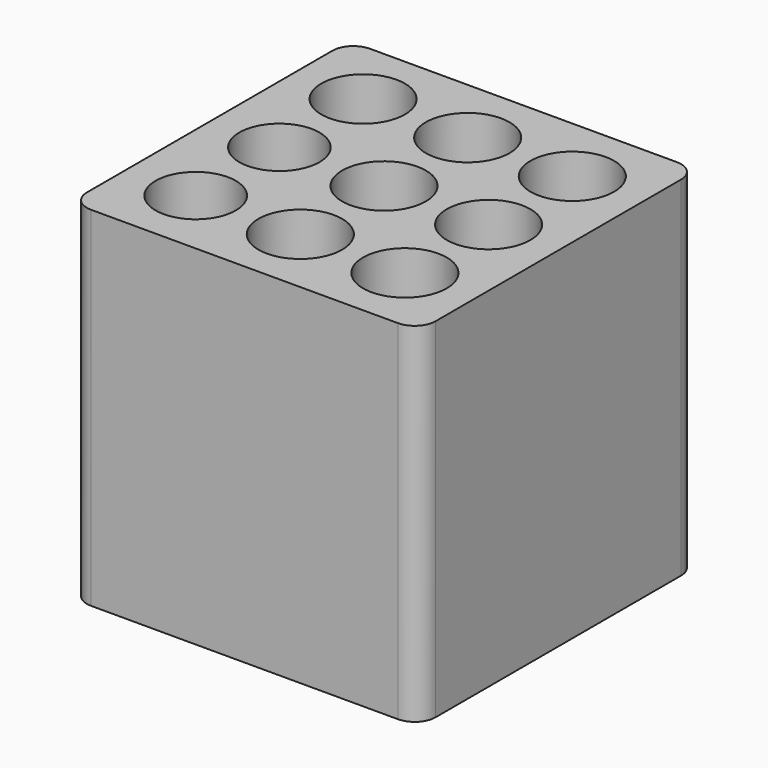
from build123d import *

# Parameters (mm, degrees)
F0_R     = 5.753175
F0_R_2   = 6
F0_R_3   = 5.998256
F1_DEPTH = 40
F3_DEPTH = 10


with BuildPart() as f1:
    # F0 (on Top) → F1 (new body)
    with BuildSketch(Plane.XY):
        with BuildLine():
            ThreePointArc((25, 22), (24.12132, 24.12132), (22, 25))
            Line((22, 25), (-22, 25))
            ThreePointArc((-22, 25), (-24.12132, 24.12132), (-25, 22))
            Line((-25, 22), (-25, -22))
            ThreePointArc((-25, -22), (-24.12132, -24.12132), (-22, -25))
            Line((-22, -25), (22, -25))
            ThreePointArc((22, -25), (24.12132, -24.12132), (25, -22))
            Line((25, -22), (25, 22))
        make_face()
        with Locations((-15, -15)):
            Circle(F0_R, mode=Mode.SUBTRACT)
        with Locations((0, -15)):
            Circle(F0_R_2, mode=Mode.SUBTRACT)
        with Locations((15, -15)):
            Circle(F0_R_2, mode=Mode.SUBTRACT)
        with Locations((-15, 0)):
            Circle(F0_R, mode=Mode.SUBTRACT)
        with Locations((-15, 15)):
            Circle(F0_R_3, mode=Mode.SUBTRACT)
        Circle(F0_R_2, mode=Mode.SUBTRACT)
        with Locations((15, 0)):
            Circle(F0_R_2, mode=Mode.SUBTRACT)
        with Locations((0, 15)):
            Circle(F0_R_2, mode=Mode.SUBTRACT)
        with Locations((15, 15)):
            Circle(F0_R_3, mode=Mode.SUBTRACT)
    extrude(amount=F1_DEPTH)

    # F2 (on face) → F3 (join)
    with BuildSketch(Plane(origin=(0, 0, 0), x_dir=(1, 0, 0), z_dir=(0, 0, -1))):
        with BuildLine():
            ThreePointArc((25, 22), (24.12132, 24.12132), (22, 25))
            Line((22, 25), (-22, 25))
            ThreePointArc((-22, 25), (-24.12132, 24.12132), (-25, 22))
            Line((-25, 22), (-25, -22))
            ThreePointArc((-25, -22), (-24.12132, -24.12132), (-22, -25))
            Line((-22, -25), (22, -25))
            ThreePointArc((22, -25), (24.12132, -24.12132), (25, -22))
            Line((25, -22), (25, 22))
        make_face()
    extrude(amount=F3_DEPTH)


solid = f1.part
